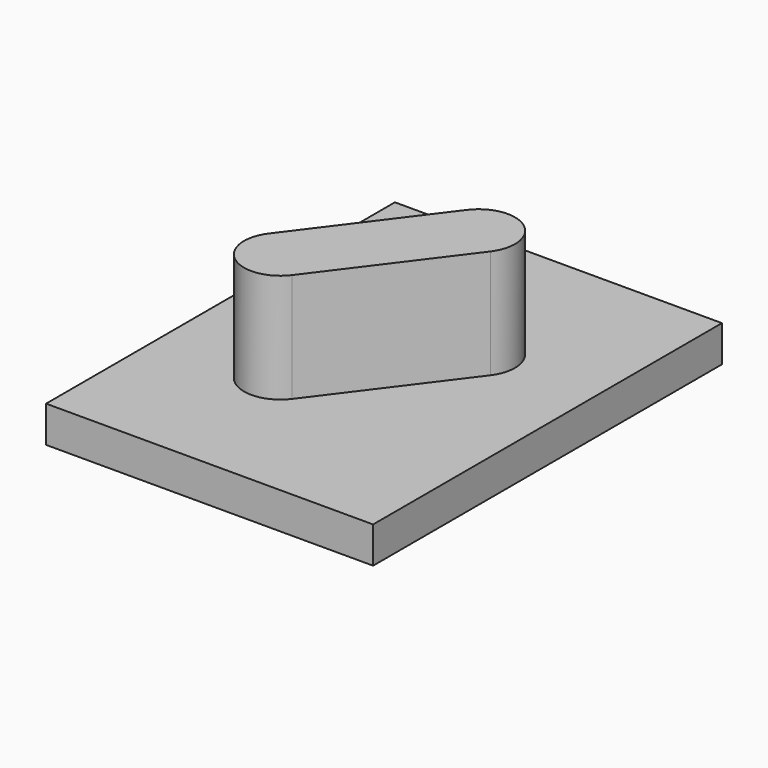
from build123d import *

# Parameters (mm, degrees)
F0_W     = 114.3
F0_H     = 152.4
F1_DEPTH = 12.7
F2_DEPTH = 50.8


with BuildPart() as f1:
    # F0 (on Top) → F1 (new body)
    with BuildSketch(Plane.XY):
        Rectangle(F0_W, F0_H)
        with BuildLine():
            Line((27.055729, 12.609485), (-6.472271, -32.094515))
            ThreePointArc((-6.472271, -32.094515), (-24.252271, -34.634515), (-26.792271, -16.854515))
            Line((-26.792271, -16.854515), (6.735729, 27.849485))
            ThreePointArc((6.735729, 27.849485), (24.515729, 30.389485), (27.055729, 12.609485))
        make_face(mode=Mode.SUBTRACT)
    extrude(amount=F1_DEPTH)

    # F0 (on Top) → F2 (join)
    with BuildSketch(Plane.XY):
        with BuildLine():
            Line((6.735729, 27.849485), (27.055729, 12.609485))
            ThreePointArc((27.055729, 12.609485), (24.515729, 30.389485), (6.735729, 27.849485))
        make_face()
        Polygon((-26.792271, -16.854515), (-6.472271, -32.094515), (27.055729, 12.609485), (6.735729, 27.849485), align=None)
        with BuildLine():
            ThreePointArc((-26.792271, -16.854515), (-24.252271, -34.634515), (-6.472271, -32.094515))
            Line((-6.472271, -32.094515), (-26.792271, -16.854515))
        make_face()
    extrude(amount=F2_DEPTH)


solid = f1.part
